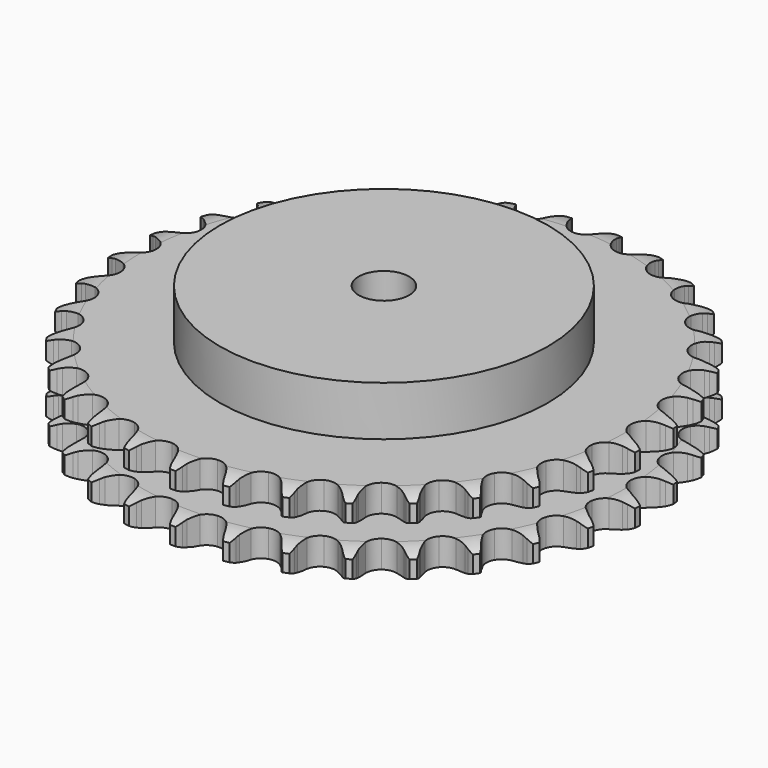
from build123d import *

# Parameters (mm, degrees)
PAD_DEPTH         = 30.3
SKETCH001_R       = 65
PAD001_DEPTH      = 50
SKETCH002_R       = 10
POCKET_DEPTH      = 0.001
POCKET_DEPTH_BACK = 50.001


with BuildPart() as part:
    # Sprocket → Pad (new body)
    with BuildSketch(Plane.XY):
        with BuildLine():
            ThreePointArc((-10.099295, 105.764603), (-8.644231, 104.046053), (-7.618616, 102.041373))
            Line((-7.618616, 102.041373), (-7.029788, 100.467752))
            ThreePointArc((-7.029788, 100.467752), (-6.097562, 98.430739), (-4.885923, 96.546488))
            ThreePointArc((-4.885923, 96.546488), (-2.731931, 94.746342), (0, 94.10077))
            ThreePointArc((0, 94.10077), (2.731931, 94.746342), (4.885923, 96.546488))
            ThreePointArc((4.885923, 96.546488), (6.097562, 98.430739), (7.029788, 100.467752))
            Line((7.029788, 100.467752), (7.618616, 102.041373))
            ThreePointArc((7.618616, 102.041373), (8.644231, 104.046053), (10.099295, 105.764603))
            ThreePointArc((10.099295, 105.764603), (11.202827, 103.801737), (11.83052, 101.639185))
            Line((11.83052, 101.639185), (12.110896, 99.982565))
            ThreePointArc((12.110896, 99.982565), (12.640769, 97.805938), (13.473915, 95.726434))
            ThreePointArc((13.473915, 95.726434), (15.248302, 93.551173), (17.808688, 92.400246))
            ThreePointArc((17.808688, 92.400246), (20.613424, 92.517131), (23.069171, 93.8771))
            Line((23.069171, 93.8771), (25.916398, 97.321773))
            ThreePointArc((25.916398, 97.321773), (26.335275, 98.050329), (26.792394, 98.75552))
            ThreePointArc((26.792394, 98.75552), (28.178863, 100.529874), (29.93287, 101.941995))
            ThreePointArc((29.93287, 101.941995), (30.644985, 99.805755), (30.852069, 97.563492))
            Line((30.852069, 97.563492), (30.813861, 95.883748))
            ThreePointArc((30.813861, 95.883748), (30.922229, 93.646176), (31.34677, 91.446578))
            ThreePointArc((31.34677, 91.446578), (32.677421, 88.974822), (34.973723, 87.360137))
            ThreePointArc((34.973723, 87.360137), (37.749895, 86.944109), (40.418639, 87.814749))
            Line((40.418639, 87.814749), (43.866322, 90.658331))
            ThreePointArc((43.866322, 90.658331), (44.415509, 91.294448), (44.997826, 91.900385))
            ThreePointArc((44.997826, 91.900385), (46.695038, 93.380283), (48.684594, 94.434937))
            ThreePointArc((48.684594, 94.434937), (48.979554, 92.202534), (48.758544, 89.9616))
            Line((48.758544, 89.9616), (48.403133, 88.319442))
            ThreePointArc((48.403133, 88.319442), (48.08608, 86.101798), (48.086672, 83.861604))
            ThreePointArc((48.086672, 83.861604), (48.925493, 81.182688), (50.874717, 79.162605))
            ThreePointArc((50.874717, 79.162605), (53.521986, 78.228701), (56.307273, 78.578545))
            Line((56.307273, 78.578545), (60.230802, 80.718261))
            ThreePointArc((60.230802, 80.718261), (60.890451, 81.238948), (61.576919, 81.723731))
            ThreePointArc((61.576919, 81.723731), (63.523533, 82.855686), (65.676729, 83.514755))
            ThreePointArc((65.676729, 83.514755), (65.543873, 81.266872), (64.902759, 79.108262))
            Line((64.902759, 79.108262), (64.24299, 77.563041))
            ThreePointArc((64.24299, 77.563041), (63.511974, 75.445476), (63.088596, 73.245653))
            ThreePointArc((63.088596, 73.245653), (63.405271, 70.456401), (64.936966, 68.10393))
            ThreePointArc((64.936966, 68.10393), (67.359653, 66.685904), (70.160814, 66.502307))
            Line((70.160814, 66.502307), (74.418384, 67.860822))
            ThreePointArc((74.418384, 67.860822), (75.164653, 68.247261), (75.930462, 68.593368))
            ThreePointArc((75.930462, 68.593368), (78.056121, 69.336468), (80.295136, 69.576132))
            ThreePointArc((80.295136, 69.576132), (79.739267, 67.394014), (78.701218, 65.395745))
            Line((78.701218, 65.395745), (77.760937, 64.00331))
            ThreePointArc((77.760937, 64.00331), (76.64238, 62.062357), (75.810334, 59.982413))
            ThreePointArc((75.810334, 59.982413), (75.593416, 57.183635), (76.652224, 54.583802))
            ThreePointArc((76.652224, 54.583802), (78.762767, 52.732905), (81.478561, 52.022502))
            Line((81.478561, 52.022502), (85.916292, 52.550717))
            ThreePointArc((85.916292, 52.550717), (86.722209, 52.78894), (87.53968, 52.983863))
            ThreePointArc((87.53968, 52.983863), (89.767558, 53.31125), (92.011468, 53.122846))
            ThreePointArc((92.011468, 53.122846), (91.052676, 51.085361), (89.655211, 49.319655))
            Line((89.655211, 49.319655), (88.468402, 48.130333))
            ThreePointArc((88.468402, 48.130333), (87.002731, 46.436144), (85.792089, 44.551253))
            ThreePointArc((85.792089, 44.551253), (85.049419, 41.844105), (85.597071, 39.090872))
            ThreePointArc((85.597071, 39.090872), (87.319189, 36.874001), (89.851461, 35.662468))
            Line((89.851461, 35.662468), (94.308961, 35.341292))
            ThreePointArc((94.308961, 35.341292), (95.145398, 35.422689), (95.984985, 35.459382))
            ThreePointArc((95.984985, 35.459382), (98.234562, 35.359224), (100.402266, 34.749562))
            ThreePointArc((100.402266, 34.749562), (99.075203, 32.93035), (97.36883, 31.461024))
            Line((97.36883, 31.461024), (95.978388, 30.5178))
            ThreePointArc((95.978388, 30.5178), (94.218576, 29.131607), (92.673094, 27.509894))
            ThreePointArc((92.673094, 27.509894), (91.431514, 24.992219), (91.448216, 22.185097))
            ThreePointArc((91.448216, 22.185097), (92.719668, 19.682375), (94.976894, 18.0135))
            Line((94.976894, 18.0135), (99.293059, 16.854541))
            ThreePointArc((99.293059, 16.854541), (100.129785, 16.77617), (100.961144, 16.653307))
            ThreePointArc((100.961144, 16.653307), (103.151113, 16.129223), (105.164264, 15.120338))
            ThreePointArc((105.164264, 15.120338), (103.516895, 13.58515), (101.563287, 12.46531))
            Line((101.563287, 12.46531), (100.019465, 11.802274))
            ThreePointArc((100.019465, 11.802274), (98.029117, 10.774179), (96.204652, 9.474256))
            ThreePointArc((96.204652, 9.474256), (94.509036, 7.237049), (93.994185, 4.477495))
            ThreePointArc((93.994185, 4.477495), (94.769017, 1.779376), (96.669615, -0.286522))
            Line((96.669615, -0.286522), (100.688447, -2.241378))
            ThreePointArc((100.688447, -2.241378), (101.49522, -2.476684), (102.288303, -2.754662))
            ThreePointArc((102.288303, -2.754662), (104.339513, -3.683729), (106.125352, -5.055374))
            ThreePointArc((106.125352, -5.055374), (104.217217, -6.251052), (102.086981, -6.980932))
            Line((102.086981, -6.980932), (100.445578, -7.339817))
            ThreePointArc((100.445578, -7.339817), (98.296629, -7.972657), (96.259124, -8.903806))
            ThreePointArc((96.259124, -8.903806), (94.170755, -10.779687), (93.142959, -13.391936))
            ThreePointArc((93.142959, -13.391936), (93.393166, -16.187934), (94.868445, -18.57619))
            Line((94.868445, -18.57619), (98.444692, -21.256287))
            ThreePointArc((98.444692, -21.256287), (99.192354, -21.640024), (99.918497, -22.063071))
            ThreePointArc((99.918497, -22.063071), (101.756812, -23.363542), (103.250793, -25.048371))
            ThreePointArc((103.250793, -25.048371), (101.150856, -25.861326), (98.920986, -26.174866))
            Line((98.920986, -26.174866), (97.241326, -26.216627))
            ThreePointArc((97.241326, -26.216627), (95.011446, -26.43134), (92.834539, -26.960062))
            ThreePointArc((92.834539, -26.960062), (90.428898, -28.406816), (88.925304, -30.777347))
            ThreePointArc((88.925304, -30.777347), (88.641844, -33.57017), (89.638481, -36.194465))
            Line((89.638481, -36.194465), (92.642889, -39.502939))
            ThreePointArc((92.642889, -39.502939), (93.304418, -40.021237), (93.937376, -40.574062))
            ThreePointArc((93.937376, -40.574062), (95.496354, -42.198936), (96.644481, -44.136056))
            ThreePointArc((96.644481, -44.136056), (94.42864, -44.536903), (92.179729, -44.422772))
            Line((92.179729, -44.422772), (90.52252, -44.145901))
            ThreePointArc((90.52252, -44.145901), (88.292301, -43.934726), (86.054673, -44.04191))
            ThreePointArc((86.054673, -44.04191), (83.418704, -45.007249), (81.493657, -47.050385))
            ThreePointArc((81.493657, -47.050385), (80.686773, -49.739093), (81.16875, -52.504578))
            Line((81.16875, -52.504578), (83.492731, -56.321851))
            ThreePointArc((83.492731, -56.321851), (84.044216, -56.955978), (84.561114, -57.618601))
            ThreePointArc((84.561114, -57.618601), (85.78441, -59.50915), (86.545186, -61.628548))
            ThreePointArc((86.545186, -61.628548), (84.293528, -61.602801), (82.106857, -61.065123))
            Line((82.106857, -61.065123), (80.531993, -60.479626))
            ThreePointArc((80.531993, -60.479626), (78.382043, -59.850196), (76.164567, -59.53197))
            ThreePointArc((76.164567, -59.53197), (73.393542, -59.981003), (71.116617, -61.622899))
            ThreePointArc((71.116617, -61.622899), (69.815473, -64.110315), (69.765368, -66.917039))
            Line((69.765368, -66.917039), (71.324928, -71.105145))
            ThreePointArc((71.324928, -71.105145), (71.746438, -71.832182), (72.128592, -72.580654))
            ThreePointArc((72.128592, -72.580654), (72.971993, -74.668548), (73.317922, -76.893624))
            ThreePointArc((73.317922, -76.893624), (71.111827, -76.442213), (69.066428, -75.500422))
            Line((69.066428, -75.500422), (67.630831, -74.62746))
            ThreePointArc((67.630831, -74.62746), (65.638853, -73.602524), (63.521674, -72.870388))
            ThreePointArc((63.521674, -72.870388), (60.715745, -72.786888), (58.169236, -73.968201))
            ThreePointArc((58.169236, -73.968201), (56.42086, -76.164423), (55.840484, -78.910943))
            Line((55.840484, -78.910943), (56.579257, -83.318514))
            ThreePointArc((56.579257, -83.318514), (56.855557, -84.112183), (57.089155, -84.919453))
            ThreePointArc((57.089155, -84.919453), (57.522178, -87.129231), (57.440758, -89.379564))
            ThreePointArc((57.440758, -89.379564), (55.35996, -88.518805), (53.529759, -87.206938))
            Line((53.529759, -87.206938), (52.285314, -86.078064))
            ThreePointArc((52.285314, -86.078064), (50.523304, -84.694665), (48.582943, -83.575081))
            ThreePointArc((48.582943, -83.575081), (45.843524, -82.962064), (43.119468, -83.6401))
            ThreePointArc((43.119468, -83.6401), (40.98705, -85.46575), (39.89738, -88.052801))
            Line((39.89738, -88.052801), (39.788663, -92.520535))
            ThreePointArc((39.788663, -92.520535), (39.909767, -93.352152), (39.986368, -94.189042))
            ThreePointArc((39.986368, -94.189042), (39.993362, -96.440836), (39.487535, -98.635093))
            ThreePointArc((39.487535, -98.635093), (37.607239, -97.396096), (36.058385, -95.761569))
            Line((36.058385, -95.761569), (35.050069, -94.417582))
            ThreePointArc((35.050069, -94.417582), (33.581712, -92.725721), (31.888298, -91.259153))
            ThreePointArc((31.888298, -91.259153), (29.314398, -90.138775), (26.51125, -90.289027))
            ThreePointArc((26.51125, -90.289027), (24.071861, -91.678123), (22.51228, -94.012201))
            Line((22.51228, -94.012201), (21.560004, -98.378622))
            ThreePointArc((21.560004, -98.378622), (21.521535, -99.21813), (21.438369, -100.054393))
            ThreePointArc((21.438369, -100.054393), (21.019082, -102.266818), (20.107129, -104.325694))
            ThreePointArc((20.107129, -104.325694), (18.495295, -102.753238), (17.283767, -100.855127))
            Line((17.283767, -100.855127), (16.548024, -99.344602))
            ThreePointArc((16.548024, -99.344602), (15.426388, -97.405427), (14.041127, -95.644882))
            ThreePointArc((14.041127, -95.644882), (11.725773, -94.057637), (8.944847, -93.674674))
            ThreePointArc((8.944847, -93.674674), (6.286652, -94.57701), (4.313528, -96.573755))
            Line((4.313528, -96.573755), (2.55211, -100.68105))
            ThreePointArc((2.55211, -100.68105), (2.355458, -101.498106), (2.115531, -102.303518))
            ThreePointArc((2.115531, -102.303518), (1.285117, -104.396611), (0, -106.245692))
            ThreePointArc((0, -106.245692), (-1.285117, -104.396611), (-2.115531, -102.303518))
            Line((-2.115531, -102.303518), (-2.55211, -100.68105))
            ThreePointArc((-2.55211, -100.68105), (-3.286485, -98.564647), (-4.313528, -96.573755))
            ThreePointArc((-4.313528, -96.573755), (-6.286652, -94.57701), (-8.944847, -93.674674))
            ThreePointArc((-8.944847, -93.674674), (-11.725773, -94.057637), (-14.041127, -95.644882))
            Line((-14.041127, -95.644882), (-16.548024, -99.344602))
            ThreePointArc((-16.548024, -99.344602), (-16.895751, -100.109677), (-17.283767, -100.855127))
            ThreePointArc((-17.283767, -100.855127), (-18.495295, -102.753238), (-20.107129, -104.325694))
            ThreePointArc((-20.107129, -104.325694), (-21.019082, -102.266818), (-21.438369, -100.054393))
            Line((-21.438369, -100.054393), (-21.560004, -98.378622))
            ThreePointArc((-21.560004, -98.378622), (-21.880576, -96.161484), (-22.51228, -94.012201))
            ThreePointArc((-22.51228, -94.012201), (-24.071861, -91.678123), (-26.51125, -90.289027))
            ThreePointArc((-26.51125, -90.289027), (-29.314398, -90.138775), (-31.888298, -91.259153))
            Line((-31.888298, -91.259153), (-35.050069, -94.417582))
            ThreePointArc((-35.050069, -94.417582), (-35.536303, -95.103023), (-36.058385, -95.761569))
            ThreePointArc((-36.058385, -95.761569), (-37.607239, -97.396096), (-39.487535, -98.635093))
            ThreePointArc((-39.487535, -98.635093), (-39.993362, -96.440836), (-39.986368, -94.189042))
            Line((-39.986368, -94.189042), (-39.788663, -92.520535))
            ThreePointArc((-39.788663, -92.520535), (-39.683846, -90.282795), (-39.89738, -88.052801))
            ThreePointArc((-39.89738, -88.052801), (-40.98705, -85.46575), (-43.119468, -83.6401))
            ThreePointArc((-43.119468, -83.6401), (-45.843524, -82.962064), (-48.582943, -83.575081))
            Line((-48.582943, -83.575081), (-52.285314, -86.078064))
            ThreePointArc((-52.285314, -86.078064), (-52.892481, -86.659097), (-53.529759, -87.206938))
            ThreePointArc((-53.529759, -87.206938), (-55.35996, -88.518805), (-57.440758, -89.379564))
            ThreePointArc((-57.440758, -89.379564), (-57.522178, -87.129231), (-57.089155, -84.919453))
            Line((-57.089155, -84.919453), (-56.579257, -83.318514))
            ThreePointArc((-56.579257, -83.318514), (-56.052838, -81.14105), (-55.840484, -78.910943))
            ThreePointArc((-55.840484, -78.910943), (-56.42086, -76.164423), (-58.169236, -73.968201))
            ThreePointArc((-58.169236, -73.968201), (-60.715745, -72.786888), (-63.521674, -72.870388))
            Line((-63.521674, -72.870388), (-67.630831, -74.62746))
            ThreePointArc((-67.630831, -74.62746), (-68.336987, -75.083087), (-69.066428, -75.500422))
            ThreePointArc((-69.066428, -75.500422), (-71.111827, -76.442213), (-73.317922, -76.893624))
            ThreePointArc((-73.317922, -76.893624), (-72.971993, -74.668548), (-72.128592, -72.580654))
            Line((-72.128592, -72.580654), (-71.324928, -71.105145))
            ThreePointArc((-71.324928, -71.105145), (-70.395935, -69.066656), (-69.765368, -66.917039))
            ThreePointArc((-69.765368, -66.917039), (-69.815473, -64.110315), (-71.116617, -61.622899))
            ThreePointArc((-71.116617, -61.622899), (-73.393542, -59.981003), (-76.164567, -59.53197))
            Line((-76.164567, -59.53197), (-80.531993, -60.479626))
            ThreePointArc((-80.531993, -60.479626), (-81.311617, -60.793378), (-82.106857, -61.065123))
            ThreePointArc((-82.106857, -61.065123), (-84.293528, -61.602801), (-86.545186, -61.628548))
            ThreePointArc((-86.545186, -61.628548), (-85.78441, -59.50915), (-84.561114, -57.618601))
            Line((-84.561114, -57.618601), (-83.492731, -56.321851))
            ThreePointArc((-83.492731, -56.321851), (-82.194739, -54.496013), (-81.16875, -52.504578))
            ThreePointArc((-81.16875, -52.504578), (-80.686773, -49.739093), (-81.493657, -47.050385))
            ThreePointArc((-81.493657, -47.050385), (-83.418704, -45.007249), (-86.054673, -44.04191))
            Line((-86.054673, -44.04191), (-90.52252, -44.145901))
            ThreePointArc((-90.52252, -44.145901), (-91.347432, -44.306437), (-92.179729, -44.422772))
            ThreePointArc((-92.179729, -44.422772), (-94.42864, -44.536903), (-96.644481, -44.136056))
            ThreePointArc((-96.644481, -44.136056), (-95.496354, -42.198936), (-93.937376, -40.574062))
            Line((-93.937376, -40.574062), (-92.642889, -39.502939))
            ThreePointArc((-92.642889, -39.502939), (-91.022812, -37.955742), (-89.638481, -36.194465))
            ThreePointArc((-89.638481, -36.194465), (-88.641844, -33.57017), (-88.925304, -30.777347))
            ThreePointArc((-88.925304, -30.777347), (-90.428898, -28.406816), (-92.834539, -26.960062))
            Line((-92.834539, -26.960062), (-97.241326, -26.216627))
            ThreePointArc((-97.241326, -26.216627), (-98.081713, -26.218147), (-98.920986, -26.174866))
            ThreePointArc((-98.920986, -26.174866), (-101.150856, -25.861326), (-103.250793, -25.048371))
            ThreePointArc((-103.250793, -25.048371), (-101.756812, -23.363542), (-99.918497, -22.063071))
            Line((-99.918497, -22.063071), (-98.444692, -21.256287))
            ThreePointArc((-98.444692, -21.256287), (-96.561082, -20.043652), (-94.868445, -18.57619))
            ThreePointArc((-94.868445, -18.57619), (-93.393166, -16.187934), (-93.142959, -13.391936))
            ThreePointArc((-93.142959, -13.391936), (-94.170755, -10.779687), (-96.259124, -8.903806))
            Line((-96.259124, -8.903806), (-100.445578, -7.339817))
            ThreePointArc((-100.445578, -7.339817), (-101.271066, -7.182265), (-102.086981, -6.980932))
            ThreePointArc((-102.086981, -6.980932), (-104.217217, -6.251052), (-106.125352, -5.055374))
            ThreePointArc((-106.125352, -5.055374), (-104.339513, -3.683729), (-102.288303, -2.754662))
            Line((-102.288303, -2.754662), (-100.688447, -2.241378))
            ThreePointArc((-100.688447, -2.241378), (-98.609384, -1.407132), (-96.669615, -0.286522))
            ThreePointArc((-96.669615, -0.286522), (-94.769017, 1.779376), (-93.994185, 4.477495))
            ThreePointArc((-93.994185, 4.477495), (-94.509036, 7.237049), (-96.204652, 9.474256))
            Line((-96.204652, 9.474256), (-100.019465, 11.802274))
            ThreePointArc((-100.019465, 11.802274), (-100.800219, 12.113203), (-101.563287, 12.46531))
            ThreePointArc((-101.563287, 12.46531), (-103.516895, 13.58515), (-105.164264, 15.120338))
            ThreePointArc((-105.164264, 15.120338), (-103.151113, 16.129223), (-100.961144, 16.653307))
            Line((-100.961144, 16.653307), (-99.293059, 16.854541))
            ThreePointArc((-99.293059, 16.854541), (-97.093685, 17.280245), (-94.976894, 18.0135))
            ThreePointArc((-94.976894, 18.0135), (-92.719668, 19.682375), (-91.448216, 22.185097))
            ThreePointArc((-91.448216, 22.185097), (-91.431514, 24.992219), (-92.673094, 27.509894))
            Line((-92.673094, 27.509894), (-95.978388, 30.5178))
            ThreePointArc((-95.978388, 30.5178), (-96.686188, 30.970869), (-97.36883, 31.461024))
            ThreePointArc((-97.36883, 31.461024), (-99.075203, 32.93035), (-100.402266, 34.749562))
            ThreePointArc((-100.402266, 34.749562), (-98.234562, 35.359224), (-95.984985, 35.459382))
            Line((-95.984985, 35.459382), (-94.308961, 35.341292))
            ThreePointArc((-94.308961, 35.341292), (-92.068768, 35.343069), (-89.851461, 35.662468))
            ThreePointArc((-89.851461, 35.662468), (-87.319189, 36.874001), (-85.597071, 39.090872))
            ThreePointArc((-85.597071, 39.090872), (-85.049419, 41.844105), (-85.792089, 44.551253))
            Line((-85.792089, 44.551253), (-88.468402, 48.130333))
            ThreePointArc((-88.468402, 48.130333), (-89.077668, 48.709166), (-89.655211, 49.319655))
            ThreePointArc((-89.655211, 49.319655), (-91.052676, 51.085361), (-92.011468, 53.122846))
            ThreePointArc((-92.011468, 53.122846), (-89.767558, 53.31125), (-87.53968, 52.983863))
            Line((-87.53968, 52.983863), (-85.916292, 52.550717))
            ThreePointArc((-85.916292, 52.550717), (-83.716246, 52.128503), (-81.478561, 52.022502))
            ThreePointArc((-81.478561, 52.022502), (-78.762767, 52.732905), (-76.652224, 54.583802))
            ThreePointArc((-76.652224, 54.583802), (-75.593416, 57.183635), (-75.810334, 59.982413))
            Line((-75.810334, 59.982413), (-77.760937, 64.00331))
            ThreePointArc((-77.760937, 64.00331), (-78.249648, 64.686988), (-78.701218, 65.395745))
            ThreePointArc((-78.701218, 65.395745), (-79.739267, 67.394014), (-80.295136, 69.576132))
            ThreePointArc((-80.295136, 69.576132), (-78.056121, 69.336468), (-75.930462, 68.593368))
            Line((-75.930462, 68.593368), (-74.418384, 67.860822))
            ThreePointArc((-74.418384, 67.860822), (-72.338, 67.029877), (-70.160814, 66.502307))
            ThreePointArc((-70.160814, 66.502307), (-67.359653, 66.685904), (-64.936966, 68.10393))
            ThreePointArc((-64.936966, 68.10393), (-63.405271, 70.456401), (-63.088596, 73.245653))
            Line((-63.088596, 73.245653), (-64.24299, 77.563041))
            ThreePointArc((-64.24299, 77.563041), (-64.593482, 78.326853), (-64.902759, 79.108262))
            ThreePointArc((-64.902759, 79.108262), (-65.543873, 81.266872), (-65.676729, 83.514755))
            ThreePointArc((-65.676729, 83.514755), (-63.523533, 82.855686), (-61.576919, 81.723731))
            Line((-61.576919, 81.723731), (-60.230802, 80.718261))
            ThreePointArc((-60.230802, 80.718261), (-58.345271, 79.508616), (-56.307273, 78.578545))
            ThreePointArc((-56.307273, 78.578545), (-53.521986, 78.228701), (-50.874717, 79.162605))
            ThreePointArc((-50.874717, 79.162605), (-48.925493, 81.182688), (-48.086672, 83.861604))
            Line((-48.086672, 83.861604), (-48.403133, 88.319442))
            ThreePointArc((-48.403133, 88.319442), (-48.602739, 89.135781), (-48.758544, 89.9616))
            ThreePointArc((-48.758544, 89.9616), (-48.979554, 92.202534), (-48.684594, 94.434937))
            ThreePointArc((-48.684594, 94.434937), (-46.695038, 93.380283), (-44.997826, 91.900385))
            Line((-44.997826, 91.900385), (-43.866322, 90.658331))
            ThreePointArc((-43.866322, 90.658331), (-42.243791, 89.113707), (-40.418639, 87.814749))
            ThreePointArc((-40.418639, 87.814749), (-37.749895, 86.944109), (-34.973723, 87.360137))
            ThreePointArc((-34.973723, 87.360137), (-32.677421, 88.974822), (-31.34677, 91.446578))
            Line((-31.34677, 91.446578), (-30.813861, 95.883748))
            ThreePointArc((-30.813861, 95.883748), (-30.855367, 96.72311), (-30.852069, 97.563492))
            ThreePointArc((-30.852069, 97.563492), (-30.644985, 99.805755), (-29.93287, 101.941995))
            ThreePointArc((-29.93287, 101.941995), (-28.178863, 100.529874), (-26.792394, 98.75552))
            Line((-26.792394, 98.75552), (-25.916398, 97.321773))
            ThreePointArc((-25.916398, 97.321773), (-24.615511, 95.497996), (-23.069171, 93.8771))
            ThreePointArc((-23.069171, 93.8771), (-20.613424, 92.517131), (-17.808688, 92.400246))
            ThreePointArc((-17.808688, 92.400246), (-15.248302, 93.551173), (-13.473915, 95.726434))
            Line((-13.473915, 95.726434), (-12.110896, 99.982565))
            ThreePointArc((-12.110896, 99.982565), (-11.992801, 100.814614), (-11.83052, 101.639185))
            ThreePointArc((-11.83052, 101.639185), (-11.202827, 103.801737), (-10.099295, 105.764603))
        make_face()
    extrude(amount=PAD_DEPTH)

    # Sketch → Groove (revolve, cut)
    with BuildSketch(Plane.XZ):
        with BuildLine():
            ThreePointArc((96.164719, 0), (100.523618, 0.506758), (104.65, 2))
            Line((104.65, 2), (104.65, 8.8))
            ThreePointArc((104.65, 8.8), (100.523618, 10.293242), (96.164719, 10.8))
            Line((65, 10.8), (96.164719, 10.8))
            Line((65, 19.5), (65, 10.8))
            Line((96.164719, 19.5), (65, 19.5))
            ThreePointArc((96.164719, 19.5), (100.523618, 20.006758), (104.65, 21.5))
            Line((104.65, 21.5), (104.65, 28.3))
            ThreePointArc((104.65, 28.3), (100.523618, 29.793242), (96.164719, 30.3))
            Line((96.164719, 30.3), (114.65, 30.3))
            Line((114.65, 30.3), (114.65, 0))
            Line((96.164719, 0), (114.65, 0))
        make_face()
    revolve(axis=Axis((0, 0, 0), (0, 0, 1)), mode=Mode.SUBTRACT)

    # Sketch001 → Pad001 (join)
    with BuildSketch(Plane.XY):
        Circle(SKETCH001_R)
    extrude(amount=PAD001_DEPTH)

    # Sketch002 → Pocket (cut, two sides)
    with BuildSketch(Plane.XY) as pocket_sk:
        Circle(SKETCH002_R)
    extrude(amount=-POCKET_DEPTH, mode=Mode.SUBTRACT)
    extrude(pocket_sk.sketch, amount=POCKET_DEPTH_BACK, mode=Mode.SUBTRACT)


solid = part.part
